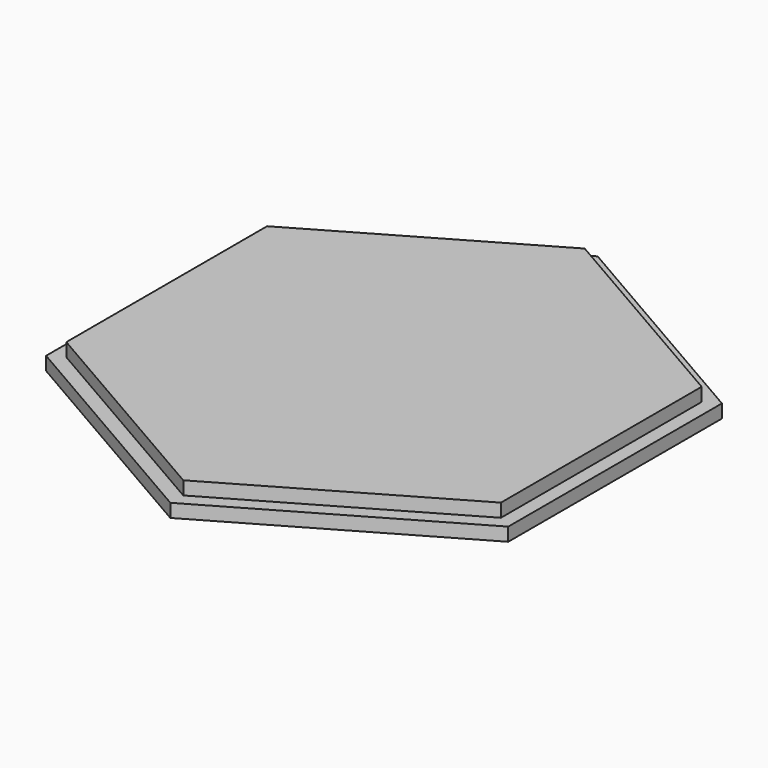
from build123d import *

# Parameters (mm, degrees)
F1_DEPTH = 2.5
F2_DEPTH = 5


with BuildPart() as f1:
    # F0 (on Top) → F1 (new body)
    with BuildSketch(Plane.XY):
        Polygon((-43.3131, -24.979499), (-0.02367, -49.999994), (43.28943, -25.020496), (43.3131, 24.979499), (0.02367, 49.999994), (-43.28943, 25.020496), align=None)
        Polygon((0, -47), (-40.703194, -23.5), (-40.703194, 23.5), (0, 47), (40.703194, 23.5), (40.703194, -23.5), align=None, mode=Mode.SUBTRACT)
    extrude(amount=F1_DEPTH)


with BuildPart() as f2:
    # F0 (on Top) → F2 (new body)
    with BuildSketch(Plane.XY):
        Polygon((-40.703194, 23.5), (-40.703194, -23.5), (0, -47), (40.703194, -23.5), (40.703194, 23.5), (0, 47), align=None)
    extrude(amount=F2_DEPTH)


solid = Compound([f1.part, f2.part])
